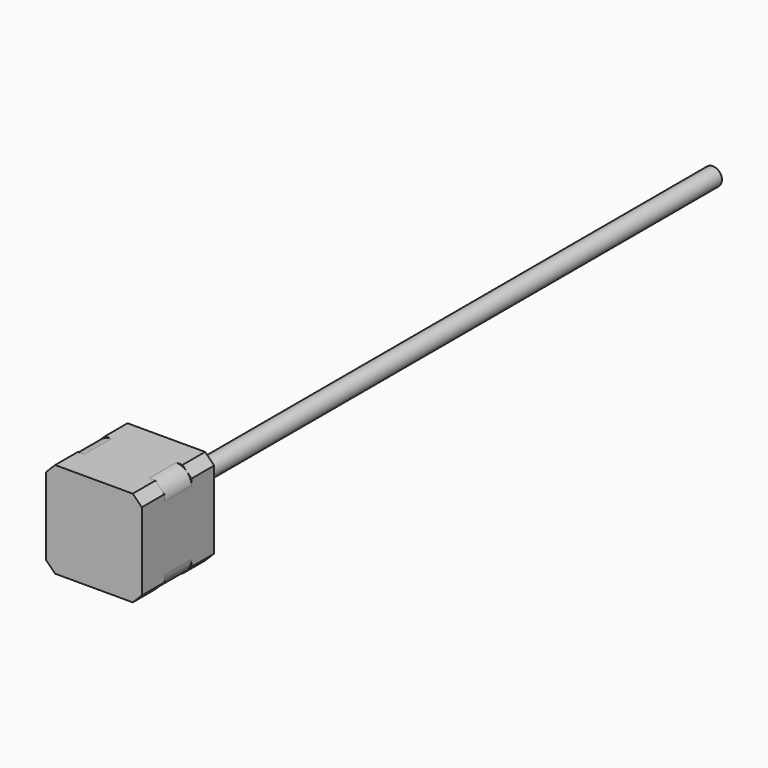
from build123d import *

# Parameters (mm, degrees)
F0_W      = 42.3
F0_H      = 42.3
F1_DEPTH  = 40
F2_R      = 11
F3_DEPTH  = 2
F4_R      = 4
F5_DEPTH  = 300
F6_SIZE   = 4
F9_DEPTH  = 7.5
F10_R     = 1.5
F11_DEPTH = 10


with BuildPart() as f1:
    # F0 (on Front) → F1 (new body)
    with BuildSketch(Plane.XZ):
        Rectangle(F0_W, F0_H)
    extrude(amount=F1_DEPTH)

    # F2 (on face) → F3 (join)
    with BuildSketch(Plane(origin=(0, 0, 0), x_dir=(-1, 0, 0), z_dir=(0, 1, 0))):
        Circle(F2_R)
    extrude(amount=F3_DEPTH)

    # F4 (on face) → F5 (join)
    with BuildSketch(Plane(origin=(0, 2, 0), x_dir=(-1, 0, 0), z_dir=(0, 1, 0))):
        Circle(F4_R)
    extrude(amount=F5_DEPTH)

    # F6
    f6_edges = [f1.edges().sort_by_distance(p)[0] for p in [
        (-21.15, -20, 21.15),
        (-21.15, -20, -21.15),
        (21.15, -20, -21.15),
        (21.15, -20, 21.15),
    ]]
    chamfer(f6_edges, length=F6_SIZE)

    # F8 (on offset) → F9 (cut, symmetric)
    with BuildSketch(Plane.XZ.offset(20)):
        with BuildLine():
            ThreePointArc((14.3215728753, 21.15), (19.15, 19.15), (21.15, 14.3215728753))
            Line((21.15, 14.3215728753), (21.15, 21.15))
            Line((21.15, 21.15), (14.3215728753, 21.15))
        make_face()
        with BuildLine():
            Line((-21.15, 21.15), (-21.15, 14.3215728753))
            ThreePointArc((-21.15, 14.3215728753), (-19.15, 19.15), (-14.3215728753, 21.15))
            Line((-14.3215728753, 21.15), (-21.15, 21.15))
        make_face()
        with BuildLine():
            Line((21.15, -21.15), (21.15, -14.3215728753))
            ThreePointArc((21.15, -14.3215728753), (19.15, -19.15), (14.3215728753, -21.15))
            Line((14.3215728753, -21.15), (21.15, -21.15))
        make_face()
        with BuildLine():
            ThreePointArc((-14.3215728753, -21.15), (-19.15, -19.15), (-21.15, -14.3215728753))
            Line((-21.15, -14.3215728753), (-21.15, -21.15))
            Line((-21.15, -21.15), (-14.3215728753, -21.15))
        make_face()
    extrude(amount=F9_DEPTH, both=True, mode=Mode.SUBTRACT)

    # F10 (on face) → F11 (cut)
    with BuildSketch(Plane(origin=(0, 0, 0), x_dir=(-1, 0, 0), z_dir=(0, 1, 0))):
        with Locations((-15.5, 15.5)):
            Circle(F10_R)
        with Locations((15.5, 15.5)):
            Circle(F10_R)
        with Locations((-15.5, -15.5)):
            Circle(F10_R)
        with Locations((15.5, -15.5)):
            Circle(F10_R)
    extrude(amount=-F11_DEPTH, mode=Mode.SUBTRACT)


solid = f1.part
